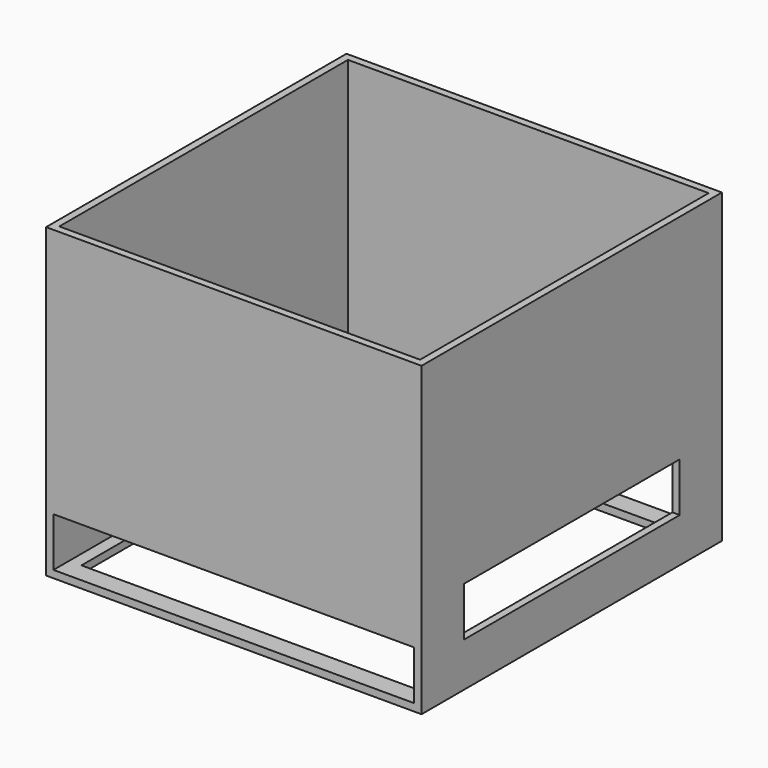
from build123d import *

# Parameters (mm, degrees)
SKETCH_W        = 153
SKETCH_H        = 153
PAD_DEPTH       = 3
SKETCH001_W     = 153
SKETCH001_H     = 153
SKETCH001_W_2   = 147
SKETCH001_H_2   = 147
PAD001_DEPTH    = 122
SKETCH002_W     = 147
SKETCH002_H     = 20
POCKET_DEPTH    = 200
SKETCH003_W     = 137
SKETCH003_H     = 137
POCKET001_DEPTH = 5
SKETCH004_R     = 6.5
POCKET002_DEPTH = 3
SKETCH005_W     = 110
SKETCH005_H     = 20
POCKET003_DEPTH = 3


with BuildPart() as part:
    # Sketch → Pad (new body)
    with BuildSketch(Plane.XY):
        with Locations((76.5, 76.5)):
            Rectangle(SKETCH_W, SKETCH_H)
    extrude(amount=PAD_DEPTH)

    # Sketch001 (on Face6 of Pad) → Pad001 (join)
    with BuildSketch(Plane.XY.offset(3)):
        with Locations((76.5, 76.5)):
            Rectangle(SKETCH001_W, SKETCH001_H)
        with Locations((76.5, 76.5)):
            Rectangle(SKETCH001_W_2, SKETCH001_H_2, mode=Mode.SUBTRACT)
    extrude(amount=PAD001_DEPTH)

    # Sketch002 (on Face10 of Pad001) → Pocket (cut)
    with BuildSketch(Plane(origin=(0, 153, 0), x_dir=(-1, 0, 0), z_dir=(0, 1, 0))):
        with Locations((-76.5, 13)):
            Rectangle(SKETCH002_W, SKETCH002_H)
    extrude(amount=-POCKET_DEPTH, mode=Mode.SUBTRACT)

    # Sketch003 (on Face4 of Pocket) → Pocket001 (cut)
    with BuildSketch(Plane(origin=(0, 0, 0), x_dir=(1, 0, 0), z_dir=(0, 0, -1))):
        with Locations((76.5, -76.5)):
            Rectangle(SKETCH003_W, SKETCH003_H)
    extrude(amount=-POCKET001_DEPTH, mode=Mode.SUBTRACT)

    # Sketch004 (on Face8 of Pocket001) → Pocket002 (cut)
    with BuildSketch(Plane(origin=(0, 0, 0), x_dir=(0, -1, 0), z_dir=(-1, 0, 0))):
        with Locations((-75, 31)):
            Circle(SKETCH004_R)
    extrude(amount=-POCKET002_DEPTH, mode=Mode.SUBTRACT)

    # Sketch005 (on Face9 of Pocket002) → Pocket003 (cut)
    with BuildSketch(Plane.YZ.offset(153)):
        with Locations((76.5, 28)):
            Rectangle(SKETCH005_W, SKETCH005_H)
    extrude(amount=-POCKET003_DEPTH, mode=Mode.SUBTRACT)


solid = part.part
